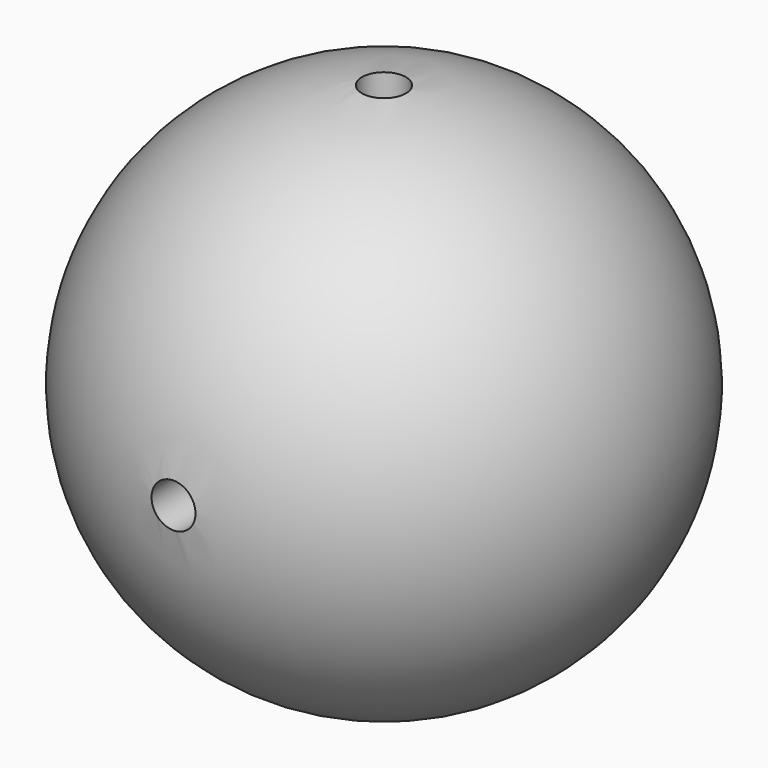
from build123d import *

# Parameters (mm, degrees)
F3_R      = 1
F4_DEPTH  = 200
F6_R      = 1
F7_DEPTH  = 25
F9_W      = 10
F9_H      = 10
F10_DEPTH = 2


with BuildPart() as f2:
    # F0 (on Top) → F2 (revolve)
    with BuildSketch(Plane.XY):
        with BuildLine():
            ThreePointArc((-10, 0), (0, 10), (10, 0))
            Line((10, 0), (12, 0))
            ThreePointArc((12, 0), (0, 12), (-12, 0))
            Line((-12, 0), (-10, 0))
        make_face()
    revolve(axis=Axis((34.508616, 0, 0), (1, 0, 0)))


with BuildPart() as f4:
    # F3 (on Top) → F4 (new body)
    with BuildSketch(Plane.XY):
        Circle(F3_R)
    extrude(amount=F4_DEPTH)


with BuildPart() as f2_1:
    add(f2.part)

    # F5: cut F4
    add(f4.part, mode=Mode.SUBTRACT)


with BuildPart() as f7:
    # F6 (on Front) → F7 (new body)
    with BuildSketch(Plane.XZ):
        Circle(F6_R)
    extrude(amount=F7_DEPTH)


with BuildPart() as f2_2:
    add(f2_1.part)

    # F8: cut F7
    add(f7.part, mode=Mode.SUBTRACT)


with BuildPart() as f10:
    # F9 (on Top) → F10 (new body)
    with BuildSketch(Plane.XY):
        Rectangle(F9_W, F9_H)
    extrude(amount=F10_DEPTH)


solid = Compound([f2_2.part, f10.part])
